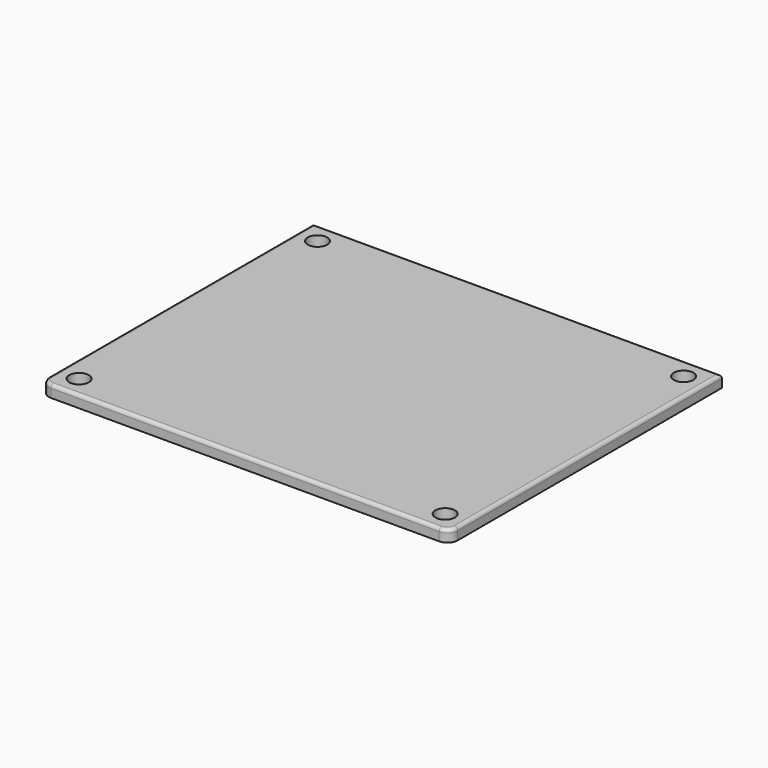
from build123d import *

# Parameters (mm, degrees)
F1_DEPTH = 3.5
F2_R     = 2.875
F3_DEPTH = 3.5
F4_R     = 1


with BuildPart() as f1:
    # F0 (on Top) → F1 (new body)
    with BuildSketch(Plane.XY):
        with BuildLine():
            Line((-57, -50), (57, -50))
            ThreePointArc((57, -50), (59.12132, -49.12132), (60, -47))
            Line((60, -47), (60, 50))
            Line((60, 50), (-60, 50))
            Line((-60, 50), (-60, -47))
            ThreePointArc((-60, -47), (-59.12132, -49.12132), (-57, -50))
        make_face()
    extrude(amount=F1_DEPTH)

    # F2 (on face) → F3 (cut, through all)
    with BuildSketch(Plane.XY.offset(3.5)):
        with Locations((-53.75, 43.75)):
            Circle(F2_R)
        with Locations((53.75, 43.75)):
            Circle(F2_R)
        with Locations((-53.75, -43.75)):
            Circle(F2_R)
        with Locations((53.75, -43.75)):
            Circle(F2_R)
    extrude(amount=-F3_DEPTH, mode=Mode.SUBTRACT)

    # F4
    f4_edges = [f1.edges().sort_by_distance(p)[0] for p in [
        (0, -50, 3.5),
        (-59.12132, -49.12132, 3.5),
        (-60, 1.5, 3.5),
        (0, 50, 3.5),
        (60, 1.5, 3.5),
        (59.12132, -49.12132, 3.5),
    ]]
    fillet(f4_edges, radius=F4_R)


solid = f1.part
